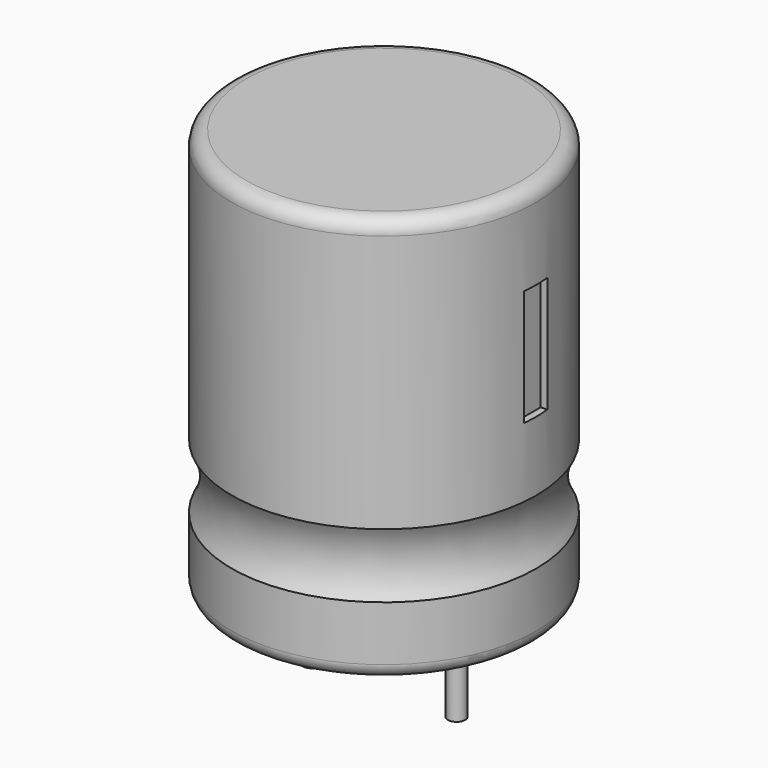
from build123d import *

# Parameters (mm, degrees)
CYLINDER002_R     = 0.3
CYLINDER002_DEPTH = 3
CYLINDER001_R     = 0.3
CYLINDER001_DEPTH = 3
BOX001_W          = 1
BOX001_H          = 1
BOX001_DEPTH      = 4
BOX_W             = 1
BOX_H             = 1
BOX_DEPTH         = 4
TORUS_R           = 2.2
CYLINDER_R        = 5.25
CYLINDER_DEPTH    = 14
FILLET_R          = 0.5


with BuildPart() as pin2:
    # Cylinder002 → Cylinder002 (new body)
    with BuildSketch(Plane(origin=(2.5, 0, -3), x_dir=(1, 0, 0), z_dir=(0, 0, 1))):
        Circle(CYLINDER002_R)
    extrude(amount=CYLINDER002_DEPTH)


with BuildPart() as pin1:
    # Cylinder001 → Cylinder001 (new body)
    with BuildSketch(Plane(origin=(-2.5, 0, -3), x_dir=(1, 0, 0), z_dir=(0, 0, 1))):
        Circle(CYLINDER001_R)
    extrude(amount=CYLINDER001_DEPTH)


with BuildPart() as box001:
    # Box001 → Box001 (new body)
    with BuildSketch(Plane(origin=(5, -0.5, 15), x_dir=(1, 0, 0), z_dir=(0, 0, 1))):
        with Locations((0.5, 0.5)):
            Rectangle(BOX001_W, BOX001_H)
    extrude(amount=BOX001_DEPTH)


with BuildPart() as box:
    # Box → Box (new body)
    with BuildSketch(Plane(origin=(5, -0.5, 7), x_dir=(1, 0, 0), z_dir=(0, 0, 1))):
        with Locations((0.5, 0.5)):
            Rectangle(BOX_W, BOX_H)
    extrude(amount=BOX_DEPTH)


with BuildPart() as ring:
    # Torus → Torus (revolve)
    with BuildSketch(Plane(origin=(0, 0, 3.5), x_dir=(1, 0, 0), z_dir=(0, -1, 0))):
        with Locations((7.15, 0)):
            Circle(TORUS_R)
    revolve(axis=Axis((0, 0, 3.5), (0, 0, 1)))


with BuildPart() as obj1:
    # Cylinder → Cylinder (new body)
    with BuildSketch(Plane.XY):
        Circle(CYLINDER_R)
    extrude(amount=CYLINDER_DEPTH)

    # Fillet
    fillet_edges = [obj1.edges().sort_by_distance(p)[0] for p in [
        (-5.25, 0, 14),
        (-5.25, 0, 0),
    ]]
    fillet(fillet_edges, radius=FILLET_R)

    # Cut: cut Ring
    add(ring.part, mode=Mode.SUBTRACT)

    # Cut001: cut Box
    add(box.part, mode=Mode.SUBTRACT)

    # Cut002: cut Box001
    add(box001.part, mode=Mode.SUBTRACT)

    # Fusion: union Pin1+
    add(pin1.part)

    # Fusion001: union Pin2-
    add(pin2.part)


solid = obj1.part
